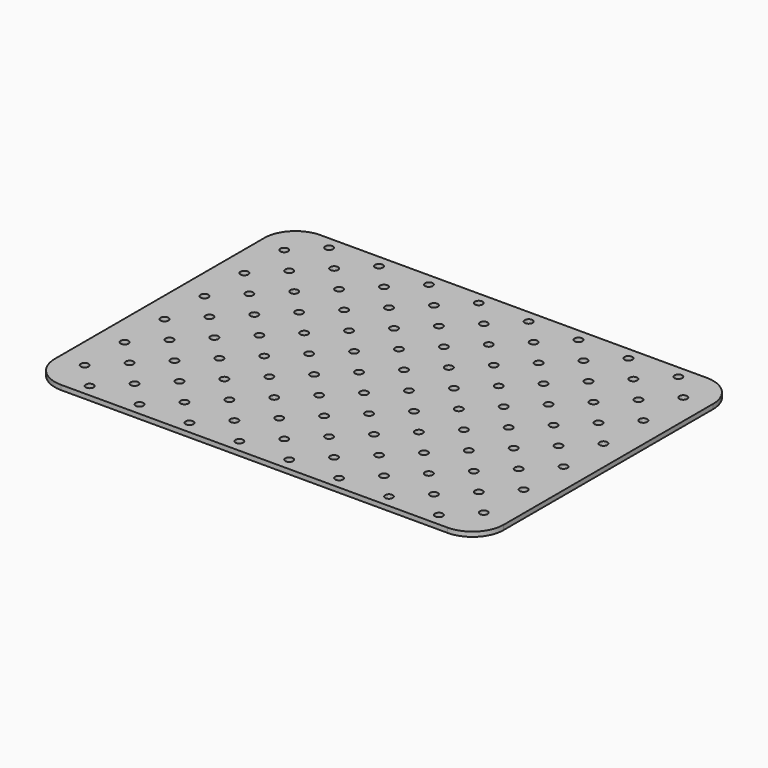
from build123d import *

# Parameters (mm, degrees)
PAD_DEPTH                        = 3
SKETCH001_R                      = 2.5
HOLE_DEPTH                       = 713.541639
SKETCH001_LINEARPATTERN_2_R      = 2.5
HOLE_LINEARPATTERN_2_DEPTH       = 713.541639
SKETCH001_LINEARPATTERN_3_R      = 2.5
HOLE_LINEARPATTERN_3_DEPTH       = 713.541639
SKETCH001_LINEARPATTERN_4_R      = 2.5
HOLE_LINEARPATTERN_4_DEPTH       = 713.541639
SKETCH001_LINEARPATTERN_5_R      = 2.5
HOLE_LINEARPATTERN_5_DEPTH       = 713.541639
SKETCH001_LINEARPATTERN_6_R      = 2.5
HOLE_LINEARPATTERN_6_DEPTH       = 713.541639
SKETCH001_LINEARPATTERN_7_R      = 2.5
HOLE_LINEARPATTERN_7_DEPTH       = 713.541639
SKETCH001_LINEARPATTERN_8_R      = 2.5
HOLE_LINEARPATTERN_8_DEPTH       = 713.541639
SKETCH001_LINEARPATTERN_9_R      = 2.5
HOLE_LINEARPATTERN_9_DEPTH       = 713.541639
LINEARPATTERN001_COUNT           = 6
LINEARPATTERN001_PITCH           = 32
SKETCH002_R                      = 2.5
HOLE001_DEPTH                    = 713.541639
SKETCH002_LINEARPATTERN002_2_R   = 2.5
HOLE001_LINEARPATTERN002_2_DEPTH = 713.541639
SKETCH002_LINEARPATTERN002_3_R   = 2.5
HOLE001_LINEARPATTERN002_3_DEPTH = 713.541639
SKETCH002_LINEARPATTERN002_4_R   = 2.5
HOLE001_LINEARPATTERN002_4_DEPTH = 713.541639
SKETCH002_LINEARPATTERN002_5_R   = 2.5
HOLE001_LINEARPATTERN002_5_DEPTH = 713.541639
SKETCH002_LINEARPATTERN002_6_R   = 2.5
HOLE001_LINEARPATTERN002_6_DEPTH = 713.541639
SKETCH002_LINEARPATTERN002_7_R   = 2.5
HOLE001_LINEARPATTERN002_7_DEPTH = 713.541639
SKETCH002_LINEARPATTERN002_8_R   = 2.5
HOLE001_LINEARPATTERN002_8_DEPTH = 713.541639
LINEARPATTERN003_COUNT           = 7
LINEARPATTERN003_PITCH           = 32


with BuildPart() as part:
    # Sketch → Pad (new body)
    with BuildSketch(Plane.XY):
        with BuildLine():
            Line((-124, 104), (124, 104))
            ThreePointArc((144, 84), (138.142136, 98.142136), (124, 104))
            Line((144, 84), (144, -84))
            ThreePointArc((124, -104), (138.142136, -98.142136), (144, -84))
            Line((124, -104), (-124, -104))
            ThreePointArc((-144, -84), (-138.142136, -98.142136), (-124, -104))
            Line((-144, -84), (-144, 84))
            ThreePointArc((-124, 104), (-138.142136, 98.142136), (-144, 84))
        make_face()
    extrude(amount=PAD_DEPTH)

    # Sketch001 → Hole (cut, through all)
    with BuildSketch(Plane.XY):
        with Locations((128, 80)):
            Circle(SKETCH001_R)
    hole = extrude(amount=HOLE_DEPTH, mode=Mode.SUBTRACT)

    # Sketch001 LinearPattern 2 → Hole LinearPattern 2 (cut, through all)
    with BuildSketch(Plane(origin=(-32, 0, 0), x_dir=(1, 0, 0), z_dir=(0, 0, 1))):
        with Locations((128, 80)):
            Circle(SKETCH001_LINEARPATTERN_2_R)
    hole_linearpattern_2 = extrude(amount=HOLE_LINEARPATTERN_2_DEPTH, mode=Mode.SUBTRACT)

    # Sketch001 LinearPattern 3 → Hole LinearPattern 3 (cut, through all)
    with BuildSketch(Plane(origin=(-64, 0, 0), x_dir=(1, 0, 0), z_dir=(0, 0, 1))):
        with Locations((128, 80)):
            Circle(SKETCH001_LINEARPATTERN_3_R)
    hole_linearpattern_3 = extrude(amount=HOLE_LINEARPATTERN_3_DEPTH, mode=Mode.SUBTRACT)

    # Sketch001 LinearPattern 4 → Hole LinearPattern 4 (cut, through all)
    with BuildSketch(Plane(origin=(-96, 0, 0), x_dir=(1, 0, 0), z_dir=(0, 0, 1))):
        with Locations((128, 80)):
            Circle(SKETCH001_LINEARPATTERN_4_R)
    hole_linearpattern_4 = extrude(amount=HOLE_LINEARPATTERN_4_DEPTH, mode=Mode.SUBTRACT)

    # Sketch001 LinearPattern 5 → Hole LinearPattern 5 (cut, through all)
    with BuildSketch(Plane(origin=(-128, 0, 0), x_dir=(1, 0, 0), z_dir=(0, 0, 1))):
        with Locations((128, 80)):
            Circle(SKETCH001_LINEARPATTERN_5_R)
    hole_linearpattern_5 = extrude(amount=HOLE_LINEARPATTERN_5_DEPTH, mode=Mode.SUBTRACT)

    # Sketch001 LinearPattern 6 → Hole LinearPattern 6 (cut, through all)
    with BuildSketch(Plane(origin=(-160, 0, 0), x_dir=(1, 0, 0), z_dir=(0, 0, 1))):
        with Locations((128, 80)):
            Circle(SKETCH001_LINEARPATTERN_6_R)
    hole_linearpattern_6 = extrude(amount=HOLE_LINEARPATTERN_6_DEPTH, mode=Mode.SUBTRACT)

    # Sketch001 LinearPattern 7 → Hole LinearPattern 7 (cut, through all)
    with BuildSketch(Plane(origin=(-192, 0, 0), x_dir=(1, 0, 0), z_dir=(0, 0, 1))):
        with Locations((128, 80)):
            Circle(SKETCH001_LINEARPATTERN_7_R)
    hole_linearpattern_7 = extrude(amount=HOLE_LINEARPATTERN_7_DEPTH, mode=Mode.SUBTRACT)

    # Sketch001 LinearPattern 8 → Hole LinearPattern 8 (cut, through all)
    with BuildSketch(Plane(origin=(-224, 0, 0), x_dir=(1, 0, 0), z_dir=(0, 0, 1))):
        with Locations((128, 80)):
            Circle(SKETCH001_LINEARPATTERN_8_R)
    hole_linearpattern_8 = extrude(amount=HOLE_LINEARPATTERN_8_DEPTH, mode=Mode.SUBTRACT)

    # Sketch001 LinearPattern 9 → Hole LinearPattern 9 (cut, through all)
    with BuildSketch(Plane(origin=(-256, 0, 0), x_dir=(1, 0, 0), z_dir=(0, 0, 1))):
        with Locations((128, 80)):
            Circle(SKETCH001_LINEARPATTERN_9_R)
    hole_linearpattern_9 = extrude(amount=HOLE_LINEARPATTERN_9_DEPTH, mode=Mode.SUBTRACT)

    # LinearPattern001: Hole, Hole LinearPattern 2, Hole LinearPattern 3, Hole LinearPattern 4, Hole LinearPattern 5, Hole LinearPattern 6, Hole LinearPattern 7, Hole LinearPattern 8, Hole LinearPattern 9 ×6
    with Locations(*[(0, -i * LINEARPATTERN001_PITCH, 0) for i in range(1, LINEARPATTERN001_COUNT)]):
        add(hole, mode=Mode.SUBTRACT)
        add(hole_linearpattern_2, mode=Mode.SUBTRACT)
        add(hole_linearpattern_3, mode=Mode.SUBTRACT)
        add(hole_linearpattern_4, mode=Mode.SUBTRACT)
        add(hole_linearpattern_5, mode=Mode.SUBTRACT)
        add(hole_linearpattern_6, mode=Mode.SUBTRACT)
        add(hole_linearpattern_7, mode=Mode.SUBTRACT)
        add(hole_linearpattern_8, mode=Mode.SUBTRACT)
        add(hole_linearpattern_9, mode=Mode.SUBTRACT)

    # Sketch002 → Hole001 (cut, through all)
    with BuildSketch(Plane.XY):
        with Locations((112, 96)):
            Circle(SKETCH002_R)
    hole001 = extrude(amount=HOLE001_DEPTH, mode=Mode.SUBTRACT)

    # Sketch002 LinearPattern002 2 → Hole001 LinearPattern002 2 (cut, through all)
    with BuildSketch(Plane(origin=(-32, 0, 0), x_dir=(1, 0, 0), z_dir=(0, 0, 1))):
        with Locations((112, 96)):
            Circle(SKETCH002_LINEARPATTERN002_2_R)
    hole001_linearpattern002_2 = extrude(amount=HOLE001_LINEARPATTERN002_2_DEPTH, mode=Mode.SUBTRACT)

    # Sketch002 LinearPattern002 3 → Hole001 LinearPattern002 3 (cut, through all)
    with BuildSketch(Plane(origin=(-64, 0, 0), x_dir=(1, 0, 0), z_dir=(0, 0, 1))):
        with Locations((112, 96)):
            Circle(SKETCH002_LINEARPATTERN002_3_R)
    hole001_linearpattern002_3 = extrude(amount=HOLE001_LINEARPATTERN002_3_DEPTH, mode=Mode.SUBTRACT)

    # Sketch002 LinearPattern002 4 → Hole001 LinearPattern002 4 (cut, through all)
    with BuildSketch(Plane(origin=(-96, 0, 0), x_dir=(1, 0, 0), z_dir=(0, 0, 1))):
        with Locations((112, 96)):
            Circle(SKETCH002_LINEARPATTERN002_4_R)
    hole001_linearpattern002_4 = extrude(amount=HOLE001_LINEARPATTERN002_4_DEPTH, mode=Mode.SUBTRACT)

    # Sketch002 LinearPattern002 5 → Hole001 LinearPattern002 5 (cut, through all)
    with BuildSketch(Plane(origin=(-128, 0, 0), x_dir=(1, 0, 0), z_dir=(0, 0, 1))):
        with Locations((112, 96)):
            Circle(SKETCH002_LINEARPATTERN002_5_R)
    hole001_linearpattern002_5 = extrude(amount=HOLE001_LINEARPATTERN002_5_DEPTH, mode=Mode.SUBTRACT)

    # Sketch002 LinearPattern002 6 → Hole001 LinearPattern002 6 (cut, through all)
    with BuildSketch(Plane(origin=(-160, 0, 0), x_dir=(1, 0, 0), z_dir=(0, 0, 1))):
        with Locations((112, 96)):
            Circle(SKETCH002_LINEARPATTERN002_6_R)
    hole001_linearpattern002_6 = extrude(amount=HOLE001_LINEARPATTERN002_6_DEPTH, mode=Mode.SUBTRACT)

    # Sketch002 LinearPattern002 7 → Hole001 LinearPattern002 7 (cut, through all)
    with BuildSketch(Plane(origin=(-192, 0, 0), x_dir=(1, 0, 0), z_dir=(0, 0, 1))):
        with Locations((112, 96)):
            Circle(SKETCH002_LINEARPATTERN002_7_R)
    hole001_linearpattern002_7 = extrude(amount=HOLE001_LINEARPATTERN002_7_DEPTH, mode=Mode.SUBTRACT)

    # Sketch002 LinearPattern002 8 → Hole001 LinearPattern002 8 (cut, through all)
    with BuildSketch(Plane(origin=(-224, 0, 0), x_dir=(1, 0, 0), z_dir=(0, 0, 1))):
        with Locations((112, 96)):
            Circle(SKETCH002_LINEARPATTERN002_8_R)
    hole001_linearpattern002_8 = extrude(amount=HOLE001_LINEARPATTERN002_8_DEPTH, mode=Mode.SUBTRACT)

    # LinearPattern003: Hole001, Hole001 LinearPattern002 2, Hole001 LinearPattern002 3, Hole001 LinearPattern002 4, Hole001 LinearPattern002 5, Hole001 LinearPattern002 6, Hole001 LinearPattern002 7, Hole001 LinearPattern002 8 ×7
    with Locations(*[(0, -i * LINEARPATTERN003_PITCH, 0) for i in range(1, LINEARPATTERN003_COUNT)]):
        add(hole001, mode=Mode.SUBTRACT)
        add(hole001_linearpattern002_2, mode=Mode.SUBTRACT)
        add(hole001_linearpattern002_3, mode=Mode.SUBTRACT)
        add(hole001_linearpattern002_4, mode=Mode.SUBTRACT)
        add(hole001_linearpattern002_5, mode=Mode.SUBTRACT)
        add(hole001_linearpattern002_6, mode=Mode.SUBTRACT)
        add(hole001_linearpattern002_7, mode=Mode.SUBTRACT)
        add(hole001_linearpattern002_8, mode=Mode.SUBTRACT)


solid = part.part
